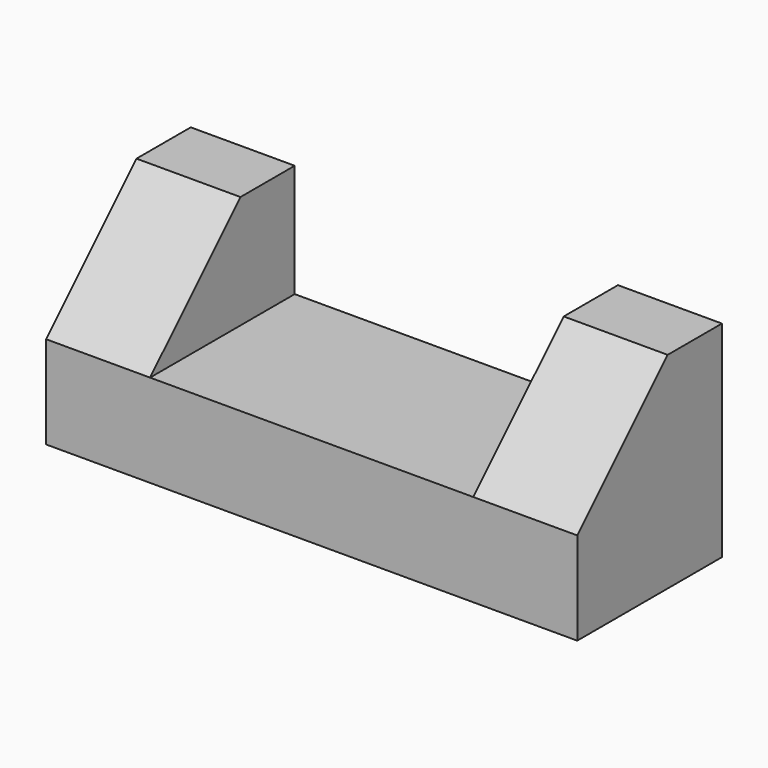
from build123d import *

# Parameters (mm, degrees)
F0_W     = 23.5
F0_H     = 8
F1_DEPTH = 4.1
F2_W     = 4.6
F2_H     = 8
F3_DEPTH = 5
F4_SIZE  = 5


with BuildPart() as f1:
    # F0 (on Top) → F1 (new body)
    with BuildSketch(Plane.XY):
        Rectangle(F0_W, F0_H)
    extrude(amount=F1_DEPTH)

    # F2 (on face) → F3 (join)
    with BuildSketch(Plane.XY.offset(4.1)):
        with Locations((-9.45, 0)):
            Rectangle(F2_W, F2_H)
        with Locations((9.45, 0)):
            Rectangle(F2_W, F2_H)
    extrude(amount=F3_DEPTH)

    # F4
    f4_edges = [f1.edges().sort_by_distance(p)[0] for p in [
        (-9.45, -4, 9.1),
        (9.45, -4, 9.1),
    ]]
    chamfer(f4_edges, length=F4_SIZE)


solid = f1.part
